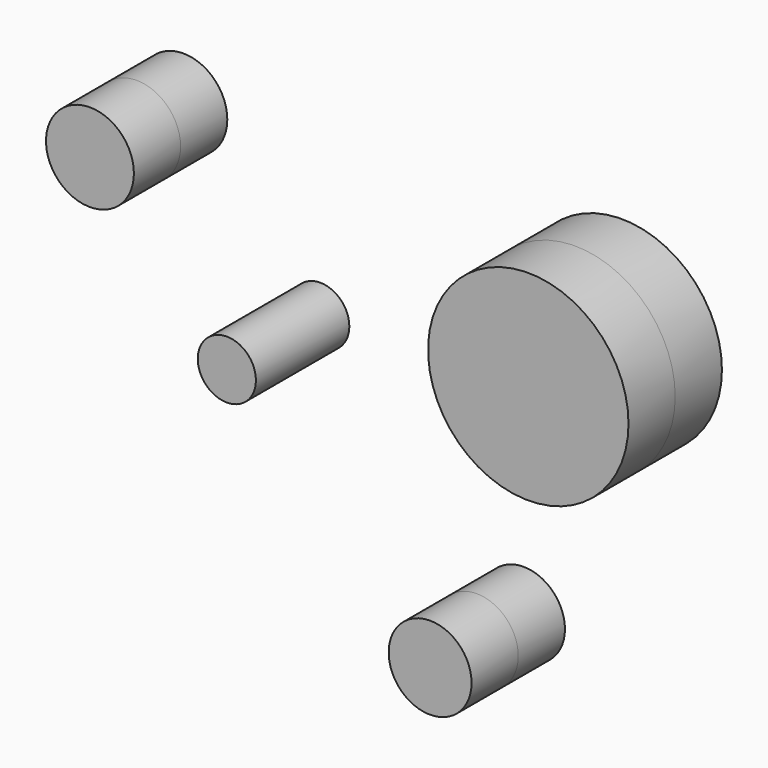
from build123d import *

# Parameters (mm, degrees)
F0_R     = 9.559241
F0_R_2   = 21.798422
F0_R_3   = 9.013653
F0_R_4   = 6.323738
F1_DEPTH = 12.7


with BuildPart() as f1:
    # F0 (on Front) → F1 (new body, symmetric)
    with BuildSketch(Plane.XZ):
        with Locations((-108.885787, 27.071053)):
            Circle(F0_R)
        with Locations((-13.535527, 14.137105)):
            Circle(F0_R_2)
        with Locations((-34.891579, -46.622369)):
            Circle(F0_R_3)
        with Locations((-79.107635, -3.910263)):
            Circle(F0_R_4)
    extrude(amount=F1_DEPTH, both=True)


solid = f1.part
